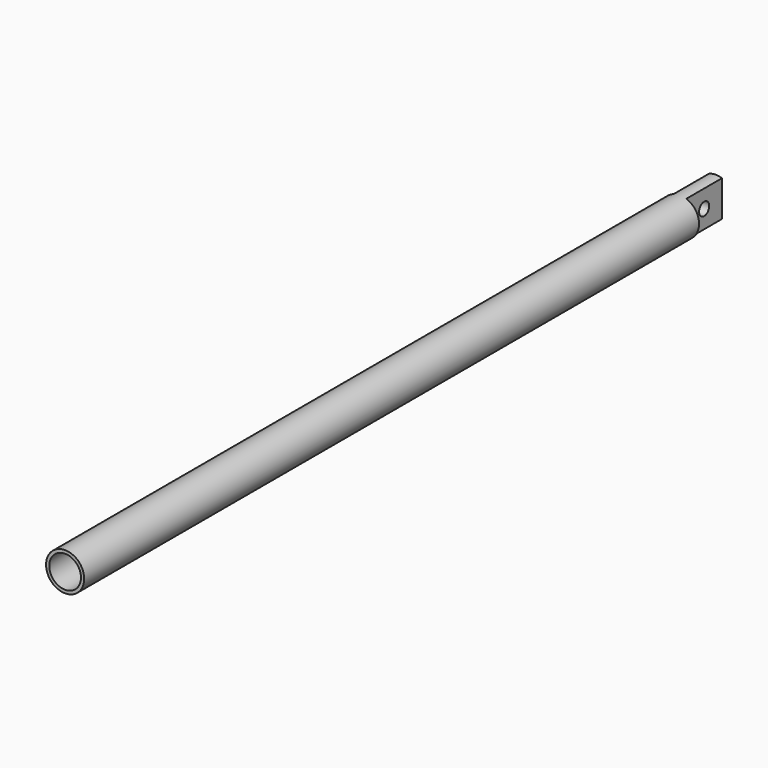
from build123d import *

# Parameters (mm, degrees)
F0_R     = 3
F1_DEPTH = 64
F2_W     = 4.390359
F2_H     = 10
F2_W_2   = 4.700764
F3_DEPTH = 34
F4_R     = 1
F5_DEPTH = 25.4
F6_R     = 2.5
F7_DEPTH = 110


with BuildPart() as f1:
    # F0 (on Front) → F1 (new body, symmetric)
    with BuildSketch(Plane.XZ):
        Circle(F0_R)
    extrude(amount=F1_DEPTH, both=True)

    # F2 (on Top) → F3 (cut, symmetric)
    with BuildSketch(Plane.XY):
        with Locations((-3.19518, 62)):
            Rectangle(F2_W, F2_H)
        with Locations((3.350382, 62)):
            Rectangle(F2_W_2, F2_H)
    extrude(amount=F3_DEPTH, both=True, mode=Mode.SUBTRACT)

    # F4 (on face) → F5 (cut)
    with BuildSketch(Plane.YZ.offset(1)):
        with Locations((60.5, 0)):
            Circle(F4_R)
    extrude(amount=-F5_DEPTH, mode=Mode.SUBTRACT)

    # F6 (on face) → F7 (cut)
    with BuildSketch(Plane.XZ.offset(64)):
        Circle(F6_R)
    extrude(amount=-F7_DEPTH, mode=Mode.SUBTRACT)


solid = f1.part
